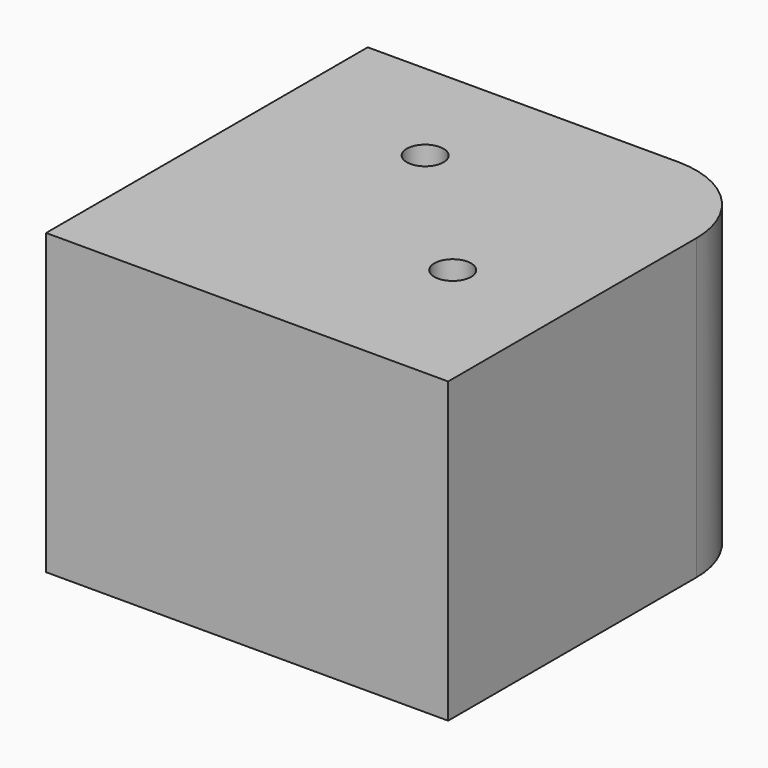
from build123d import *

# Parameters (mm, degrees)
SKETCH_W     = 35
SKETCH_H     = 35
PAD_DEPTH    = 26
SKETCH001_R  = 1.6
POCKET_DEPTH = 26.001
FILLET_R     = 8


with BuildPart() as part:
    # Sketch → Pad (new body)
    with BuildSketch(Plane.XY):
        with Locations((17.5, 17.5)):
            Rectangle(SKETCH_W, SKETCH_H)
    extrude(amount=PAD_DEPTH)

    # Sketch001 (on Face6 of Pad) → Pocket (cut, through all)
    with BuildSketch(Plane.XY.offset(26)):
        with Locations((25, 13)):
            Circle(SKETCH001_R)
        with Locations((13, 25)):
            Circle(SKETCH001_R)
    extrude(amount=-POCKET_DEPTH, mode=Mode.SUBTRACT)

    # Fillet
    fillet_edges = [part.edges().sort_by_distance(p)[0] for p in [
        (35, 35, 13),
    ]]
    fillet(fillet_edges, radius=FILLET_R)


solid = part.part
